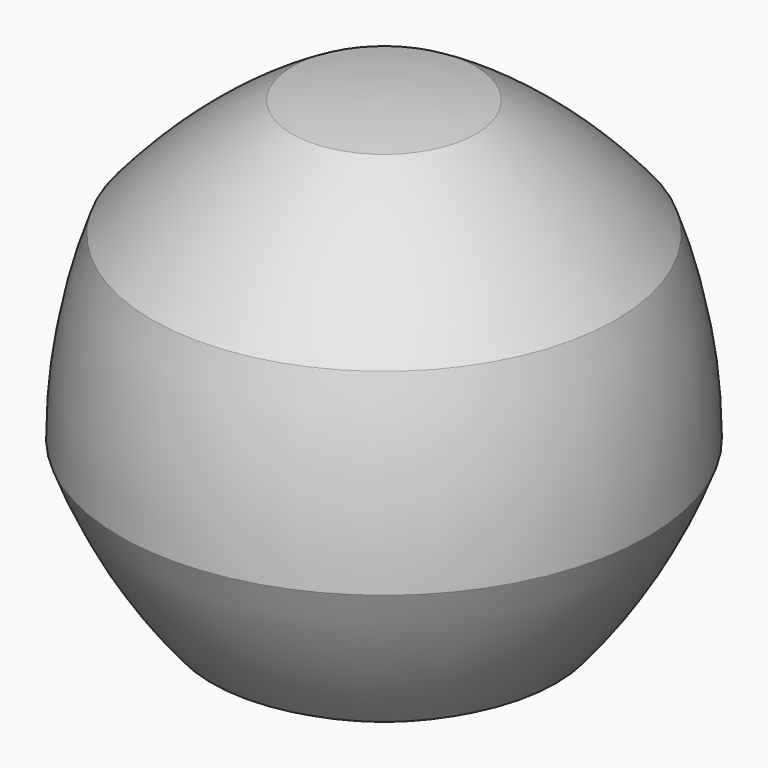
from build123d import *


with BuildPart() as f1:
    # F0 (on Front) → F1 (revolve)
    with BuildSketch(Plane.XZ):
        with BuildLine():
            ThreePointArc((46.393748, 25.385665), (34.068065, 37.711349), (19.789304, 47.709445))
            ThreePointArc((19.789304, 47.709445), (11.14006, 48.848139), (2.424486, 49.228669))
            Line((2.424486, 49.228669), (2.424486, -50.771331))
            ThreePointArc((2.424486, -50.771331), (19.261683, -46.259817), (35.059668, -38.893096))
            ThreePointArc((35.059668, -38.893096), (45.057764, -24.614335), (52.424486, -8.816349))
            ThreePointArc((52.424486, -8.816349), (50.905261, 8.548469), (46.393748, 25.385665))
        make_face()
    revolve(axis=Axis((2.424486, 0, -0.771331), (0, 0, -1)))


solid = f1.part
